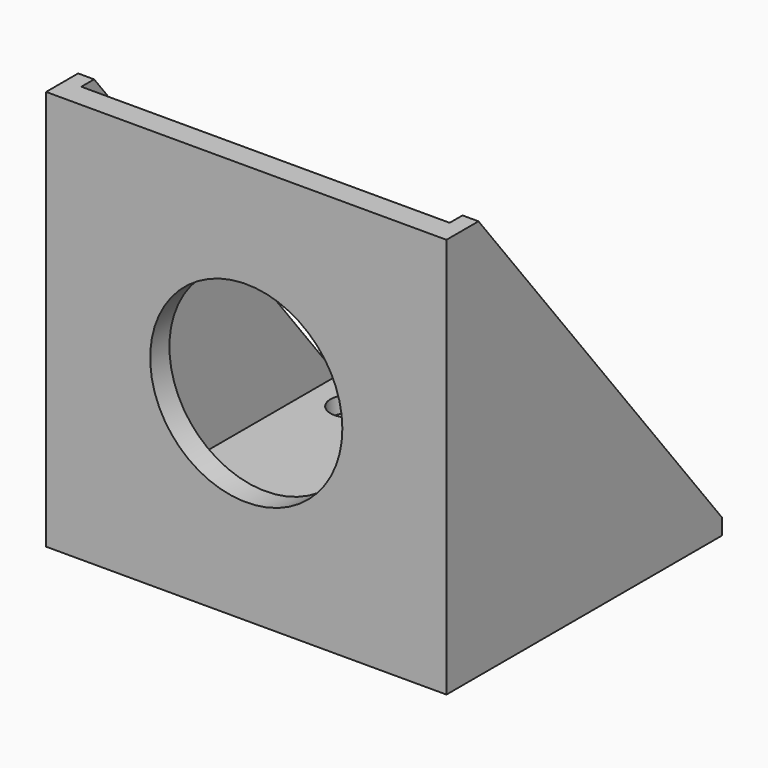
from build123d import *

# Parameters (mm, degrees)
SKETCH_W      = 25
SKETCH_H      = 25
SKETCH_R      = 6
PAD_DEPTH     = 1.5
PAD001_DEPTH  = 20
SKETCH002_R   = 1.2
HOLE_DEPTH    = 25
CHAMFER_SIZE2 = 19
CHAMFER_SIZE  = 24


with BuildPart() as part:
    # Sketch → Pad (new body)
    with BuildSketch(Plane.XZ):
        with Locations((12.5, 12.5)):
            Rectangle(SKETCH_W, SKETCH_H)
        with Locations((12.5, 12.5)):
            Circle(SKETCH_R, mode=Mode.SUBTRACT)
    extrude(amount=PAD_DEPTH)

    # Sketch001 (on Face6 of Pad) → Pad001 (join)
    with BuildSketch(Plane(origin=(0, 0, 0), x_dir=(1, 0, 0), z_dir=(0, 1, 0))):
        Polygon((25, -25), (25, 0), (0, 0), (0, -25), (1, -25), (1, -1), (24, -1), (24, -25), align=None)
    extrude(amount=PAD001_DEPTH)

    # Sketch002 (on Face15 of Pad001) → Hole (cut)
    with BuildSketch(Plane(origin=(0, 0, 1), x_dir=(-1, 0, 0), z_dir=(0, 0, 1))):
        with Locations((-3.5, -17.826087)):
            Circle(SKETCH002_R)
        with Locations((-21.5, -17.826087)):
            Circle(SKETCH002_R)
        with Locations((-21.5, -2.173913)):
            Circle(SKETCH002_R)
        with Locations((-3.5, -2.173913)):
            Circle(SKETCH002_R)
    extrude(amount=-HOLE_DEPTH, mode=Mode.SUBTRACT)

    # Chamfer
    chamfer_edges = [part.edges().sort_by_distance(p)[0] for p in [
        (0.5, 20, 25),
        (24.5, 20, 25),
    ]]
    chamfer_side = part.faces().sort_by_distance((24.646447, 20, 12.5))[0]
    chamfer(chamfer_edges, length=CHAMFER_SIZE, length2=CHAMFER_SIZE2, reference=chamfer_side)


solid = part.part
